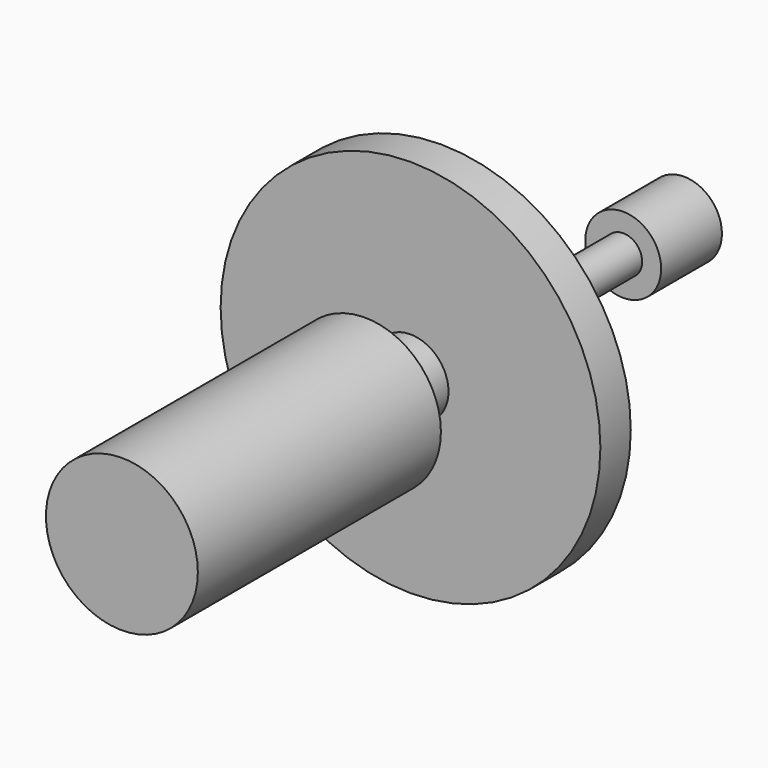
from build123d import *

# Parameters (mm, degrees)
F0_R      = 1
F1_DEPTH  = 2
F2_R      = 0.5
F3_DEPTH  = 5
F4_R      = 1
F4_R_2    = 0.5
F5_DEPTH  = 1
F6_R      = 5
F7_DEPTH  = 1
F8_R      = 1
F9_DEPTH  = 1
F10_R     = 0.5
F11_DEPTH = 0.5
F12_R     = 2
F13_DEPTH = 8


with BuildPart() as f1:
    # F0 (on Front) → F1 (new body)
    with BuildSketch(Plane.XZ):
        Circle(F0_R)
    extrude(amount=F1_DEPTH)

    # F2 (on face) → F3 (join)
    with BuildSketch(Plane.XZ.offset(2)):
        Circle(F2_R)
    extrude(amount=F3_DEPTH)


with BuildPart() as f5:
    # F4 (on face) → F5 (new body)
    with BuildSketch(Plane.XZ.offset(7)):
        Circle(F4_R)
        Circle(F4_R_2, mode=Mode.SUBTRACT)
    extrude(amount=F5_DEPTH)

    # F6 (on face) → F7 (join)
    with BuildSketch(Plane.XZ.offset(8)):
        Circle(F6_R)
    extrude(amount=F7_DEPTH)

    # F8 (on face) → F9 (join)
    with BuildSketch(Plane.XZ.offset(9)):
        Circle(F8_R)
    extrude(amount=F9_DEPTH)

    # F10 (on face) → F11 (join)
    with BuildSketch(Plane.XZ.offset(10)):
        Circle(F10_R)
    extrude(amount=F11_DEPTH)

    # F12 (on face) → F13 (join)
    with BuildSketch(Plane.XZ.offset(10.5)):
        Circle(F12_R)
    extrude(amount=F13_DEPTH)


solid = Compound([f1.part, f5.part])
